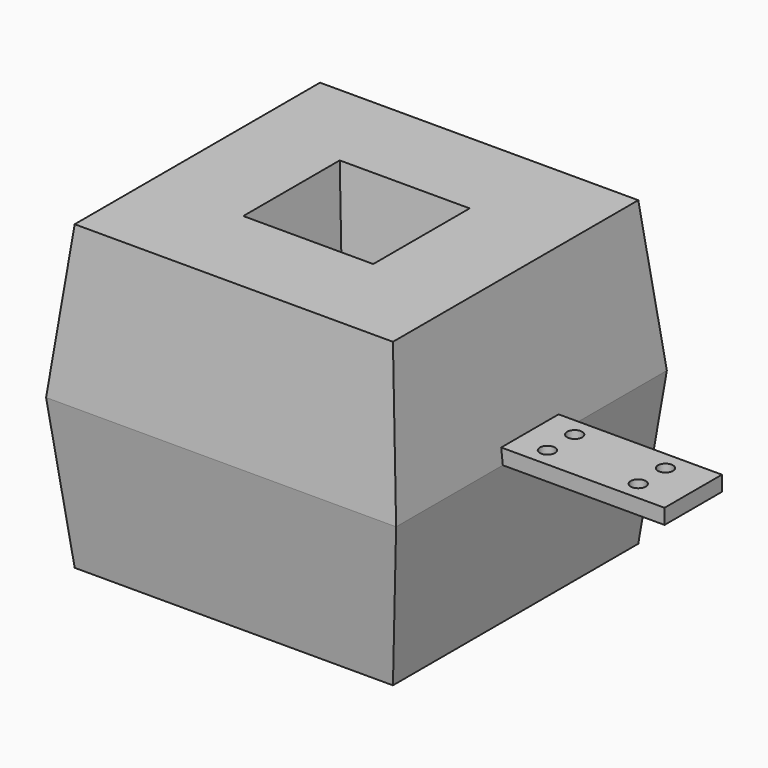
from build123d import *

# Parameters (mm, degrees)
F0_W     = 303.5179972649
F0_H     = 130.4491758347
F1_DEPTH = 25.4
F2_R     = 10.594213
F3_DEPTH = 50.8
F4_W     = 291.4582490921
F4_H     = 120.4743683338
F4_R     = 12.70635
F5_DEPTH = 25.4
F6_W     = 587.8875851631
F6_H     = 568.3960914612
F6_W_2   = 164.8424863815
F6_H_2   = 149.0684151649
F7_DEPTH = 254
F7_TAPER = 6


with BuildPart() as f1:
    # F0 (on Top) → F1 (new body)
    with BuildSketch(Plane.XY):
        Rectangle(F0_W, F0_H)
    extrude(amount=F1_DEPTH)


with BuildPart() as f3:
    # F2 (on Top) → F3 (new body)
    with BuildSketch(Plane.XY):
        with Locations((61.6123527288, -31.7712649703)):
            Circle(F2_R)
    extrude(amount=F3_DEPTH)


with BuildPart() as f3b:
    # F2 (on Top) → F3, piece 2 (new body)
    with BuildSketch(Plane.XY):
        with Locations((61.6123527288, 31.7712649703)):
            Circle(F2_R)
    extrude(amount=F3_DEPTH)


with BuildPart() as f3c:
    # F2 (on Top) → F3, piece 3 (new body)
    with BuildSketch(Plane.XY):
        with Locations((-61.6123527288, 31.7712649703)):
            Circle(F2_R)
    extrude(amount=F3_DEPTH)


with BuildPart() as f3d:
    # F2 (on Top) → F3, piece 4 (new body)
    with BuildSketch(Plane.XY):
        with Locations((-61.6123527288, -31.7712649703)):
            Circle(F2_R)
    extrude(amount=F3_DEPTH)


with BuildPart() as f5:
    # F4 (on Top) → F5 (new body)
    with BuildSketch(Plane.XY):
        with Locations((419.846534729, 0)):
            Rectangle(F4_W, F4_H)
        with Locations((343.5781598091, -28.575)):
            Circle(F4_R, mode=Mode.SUBTRACT)
        with Locations((496.1149096489, -28.575)):
            Circle(F4_R, mode=Mode.SUBTRACT)
        with Locations((343.5781598091, 28.575)):
            Circle(F4_R, mode=Mode.SUBTRACT)
        with Locations((496.1149096489, 28.575)):
            Circle(F4_R, mode=Mode.SUBTRACT)
    extrude(amount=F5_DEPTH)


with BuildPart() as f7:
    # F6 (on Top) → F7 (new body, symmetric)
    with BuildSketch(Plane.XY):
        Rectangle(F6_W, F6_H)
        Rectangle(F6_W_2, F6_H_2, mode=Mode.SUBTRACT)
    extrude(amount=F7_DEPTH, both=True, taper=F7_TAPER)


solid = Compound([f1.part, f3.part, f3b.part, f3c.part, f3d.part, f5.part, f7.part])
